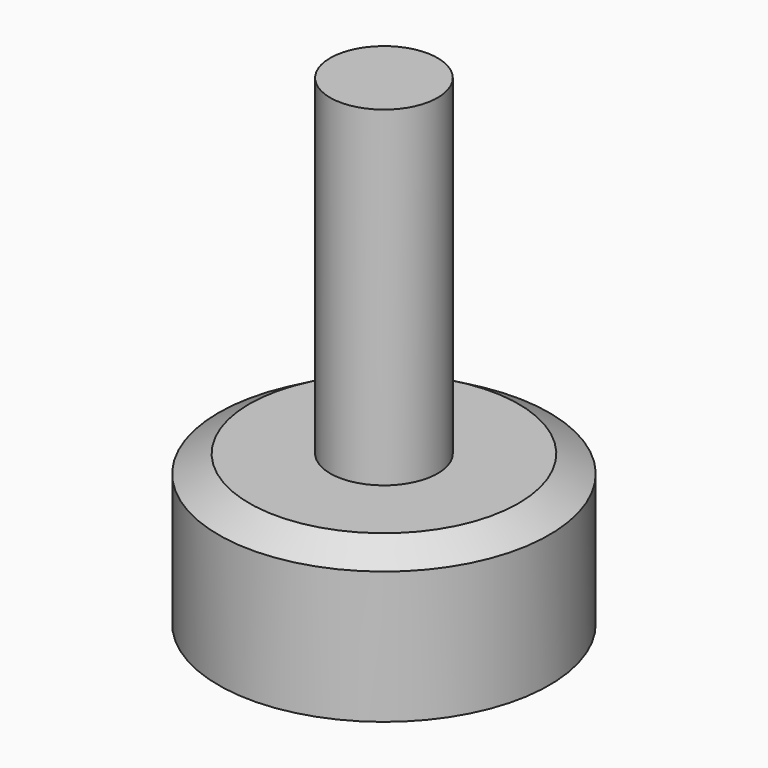
from build123d import *

# Parameters (mm, degrees)
F0_W   = 3.25
F0_H   = 20
F0_H_2 = 3
F0_H_3 = 1.0746234533


with BuildPart() as f1:
    # F0 (on Front) → F1 (revolve)
    with BuildSketch(Plane.XZ):
        with Locations((-22.1763077103, 19.0746234533)):
            Rectangle(F0_W, F0_H)
        Polygon((-23.8013077103, 8), (-30.5513077103, 8), (-30.5513077103, 0), (-23.8013077103, 0), (-23.8013077103, 5), align=None)
        Polygon((-28.6900052902, 9.0746234533), (-30.5513077103, 8), (-23.8013077103, 8), (-23.8013077103, 9.0746234533), align=None)
        with Locations((-22.1763077103, 6.5)):
            Rectangle(F0_W, F0_H_2)
        with Locations((-22.1763077103, 8.5373117267)):
            Rectangle(F0_W, F0_H_3)
    revolve(axis=Axis((-20.5513077103, 0, 19.0746234533), (0, 0, 1)))


solid = f1.part
